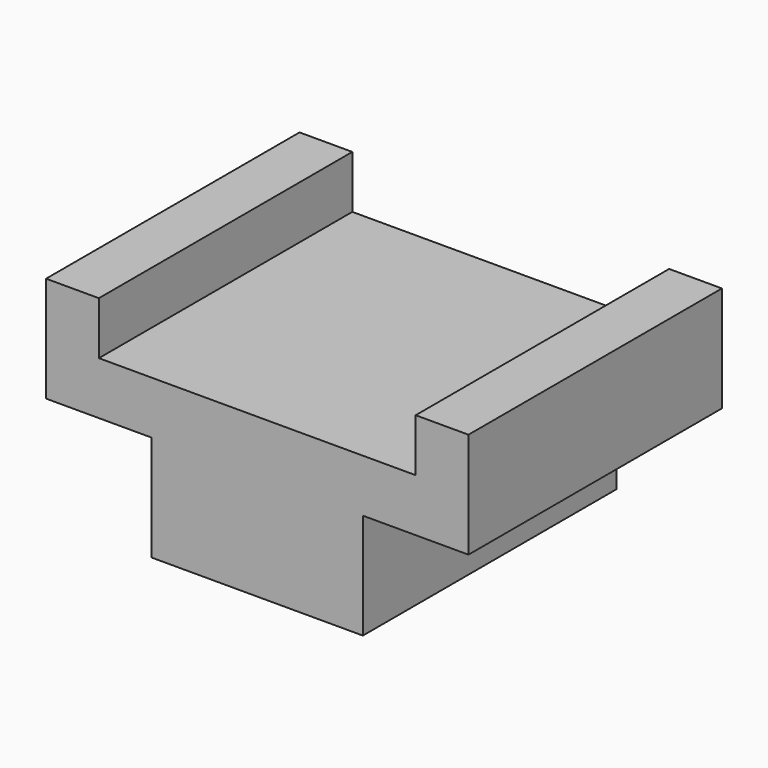
from build123d import *

# Parameters (mm, degrees)
F0_W     = 20
F0_H     = 60
F0_W_2   = 40
F1_DEPTH = 30
F2_W     = 10
F2_H     = 60
F3_DEPTH = 20
F4_DEPTH = 10


with BuildPart() as f1:
    # F0 (on Top) → F1 (new body)
    with BuildSketch(Plane.XY):
        with Locations((10, -30)):
            Rectangle(F0_W, F0_H)
        with Locations((40, -30)):
            Rectangle(F0_W_2, F0_H)
        with Locations((70, -30)):
            Rectangle(F0_W, F0_H)
    extrude(amount=F1_DEPTH)

    # F2 (on face) + F0 (on Top) → F3 (cut)
    with BuildSketch(Plane.XY.offset(30)):
        with Locations((5, -30)):
            Rectangle(F2_W, F2_H)
        with Locations((75, -30)):
            Rectangle(F2_W, F2_H)
    with BuildSketch(Plane.XY):
        with Locations((10, -30)):
            Rectangle(F0_W, F0_H)
        with Locations((70, -30)):
            Rectangle(F0_W, F0_H)
    extrude(amount=F3_DEPTH, mode=Mode.SUBTRACT)

    # F2 (on face) → F4 (join)
    with BuildSketch(Plane.XY.offset(30)):
        with Locations((5, -30)):
            Rectangle(F2_W, F2_H)
        with Locations((75, -30)):
            Rectangle(F2_W, F2_H)
    extrude(amount=F4_DEPTH)


solid = f1.part
